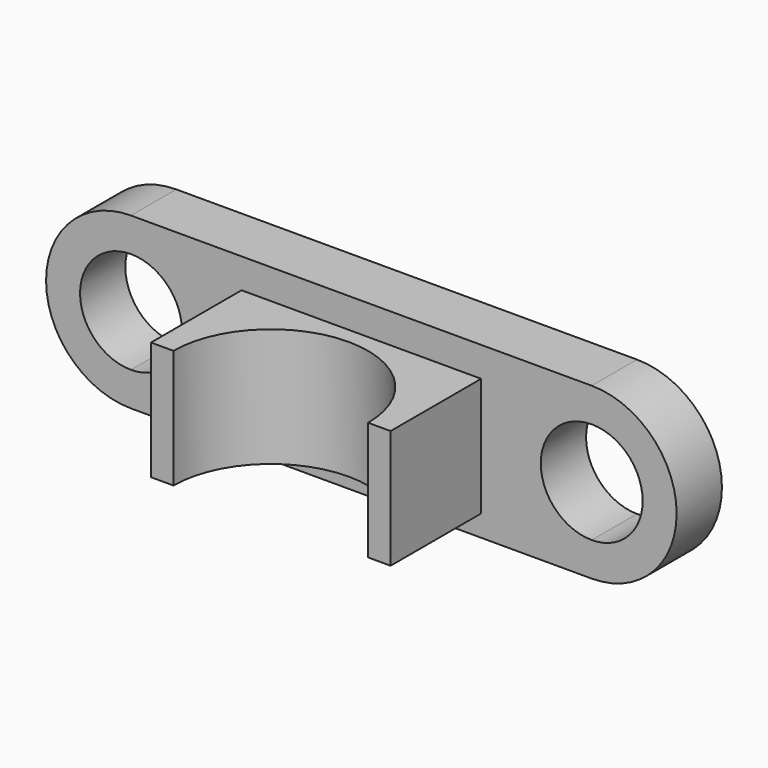
from build123d import *

# Parameters (mm, degrees)
F1_DEPTH = 25.4
F2_W     = 107.5181365013
F2_H     = 53.2084149309
F3_DEPTH = 50.8
F4_R     = 43.6587817112
F5_DEPTH = 203.2


with BuildPart() as f1:
    # F0 (on Front) → F1 (new body)
    with BuildSketch(Plane.XZ):
        with BuildLine():
            Line((-103.3638969086, 22.86), (-103.3638969086, 38.1))
            ThreePointArc((-103.3638969086, 38.1), (-141.4638969086, 0), (-103.3638969086, -38.1))
            Line((-103.3638969086, -38.1), (-103.3638969086, -22.86))
            ThreePointArc((-103.3638969086, -22.86), (-126.2238969086, 0), (-103.3638969086, 22.86))
        make_face()
        with BuildLine():
            ThreePointArc((141.4638969086, 0), (130.3046652718, 26.9407683632), (103.3638969086, 38.1))
            Line((103.3638969086, 38.1), (103.3638969086, 22.86))
            ThreePointArc((103.3638969086, 22.86), (119.5283579265, 16.1644610179), (126.2238969086, 0))
            ThreePointArc((126.2238969086, 0), (119.5283579265, -16.1644610179), (103.3638969086, -22.86))
            Line((103.3638969086, -22.86), (103.3638969086, -38.1))
            ThreePointArc((103.3638969086, -38.1), (130.3046652718, -26.9407683632), (141.4638969086, 0))
        make_face()
        with BuildLine():
            ThreePointArc((-65.2638969086, 0), (-76.4231285454, 26.9407683632), (-103.3638969086, 38.1))
            Line((-103.3638969086, 38.1), (-103.3638969086, 22.86))
            ThreePointArc((-103.3638969086, 22.86), (-87.1994358907, 16.1644610179), (-80.5038969086, 0))
            ThreePointArc((-80.5038969086, 0), (-87.1994358907, -16.1644610179), (-103.3638969086, -22.86))
            Line((-103.3638969086, -22.86), (-103.3638969086, -38.1))
            ThreePointArc((-103.3638969086, -38.1), (-76.4231285454, -26.9407683632), (-65.2638969086, 0))
        make_face()
        with BuildLine():
            Line((103.3638969086, 22.86), (103.3638969086, 38.1))
            ThreePointArc((103.3638969086, 38.1), (65.2638969086, 0), (103.3638969086, -38.1))
            Line((103.3638969086, -38.1), (103.3638969086, -22.86))
            ThreePointArc((103.3638969086, -22.86), (80.5038969086, 0), (103.3638969086, 22.86))
        make_face()
        with BuildLine():
            Line((103.3638969086, 38.1), (-103.3638969086, 38.1))
            ThreePointArc((-103.3638969086, 38.1), (-76.4231285454, 26.9407683632), (-65.2638969086, 0))
            ThreePointArc((-65.2638969086, 0), (-76.4231285454, -26.9407683632), (-103.3638969086, -38.1))
            Line((-103.3638969086, -38.1), (103.3638969086, -38.1))
            ThreePointArc((103.3638969086, -38.1), (65.2638969086, 0), (103.3638969086, 38.1))
        make_face()
    extrude(amount=F1_DEPTH)

    # F2 (on face) → F3 (join)
    with BuildSketch(Plane.XZ.offset(25.4)):
        with Locations((0, -1.8939918373)):
            Rectangle(F2_W, F2_H)
    extrude(amount=F3_DEPTH)

    # F4 (on face) → F5 (cut)
    with BuildSketch(Plane(origin=(0, 0, -28.4981993027), x_dir=(1, 0, 0), z_dir=(0, 0, -1))):
        with Locations((0, 76.2)):
            Circle(F4_R)
    extrude(amount=-F5_DEPTH, mode=Mode.SUBTRACT)


solid = f1.part
